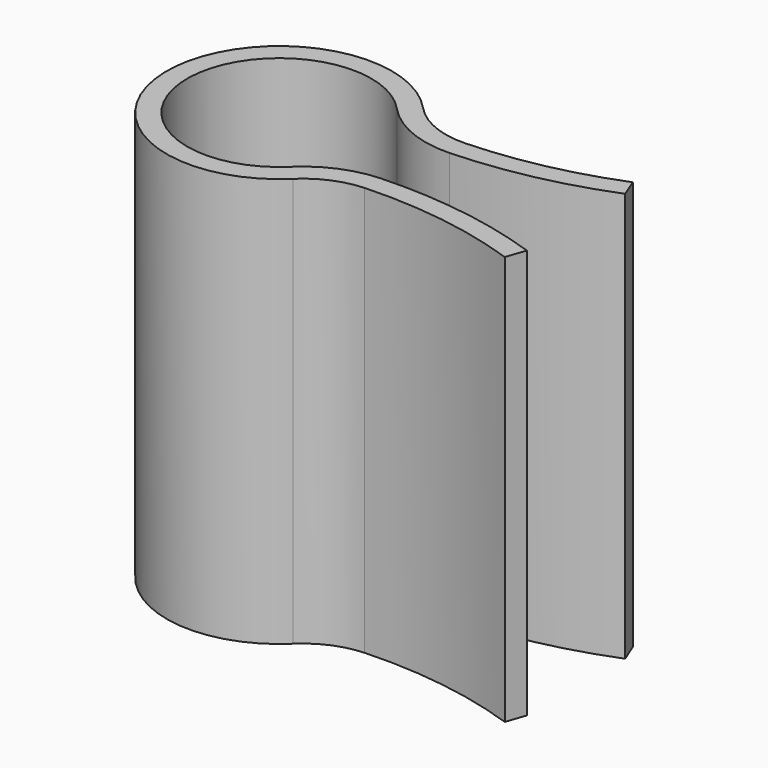
from build123d import *

# Parameters (mm, degrees)
F1_DEPTH = 20


with BuildPart() as f1:
    # F0 (on Top) → F1 (new body)
    with BuildSketch(Plane.XY):
        with BuildLine():
            ThreePointArc((3.130612, -3.232533), (-4.498272, 0.124691), (3.304876, 3.054143))
            ThreePointArc((3.304876, 3.054143), (5.057214, 1.830866), (7.160258, 1.450997))
            ThreePointArc((7.160258, 1.450997), (10.896637, 1.91036), (14.5, 3))
            Line((14.5, 3), (14.129716, 3.928919))
            ThreePointArc((14.129716, 3.928919), (10.690142, 2.888807), (7.123599, 2.450325))
            ThreePointArc((7.123599, 2.450325), (5.441163, 2.75422), (4.039293, 3.732842))
            ThreePointArc((4.039293, 3.732842), (-5.497888, 0.1524), (3.826303, -3.950874))
            ThreePointArc((3.826303, -3.950874), (5.026855, -3.150465), (6.43329, -2.828101))
            ThreePointArc((6.43329, -2.828101), (10.356786, -3.023299), (14.175279, -3.94581))
            Line((14.175279, -3.94581), (14.5, -3))
            ThreePointArc((14.5, -3), (10.499674, -2.03356), (6.389346, -1.829067))
            ThreePointArc((6.389346, -1.829067), (4.631302, -2.232022), (3.130612, -3.232533))
        make_face()
    extrude(amount=F1_DEPTH)


solid = f1.part
